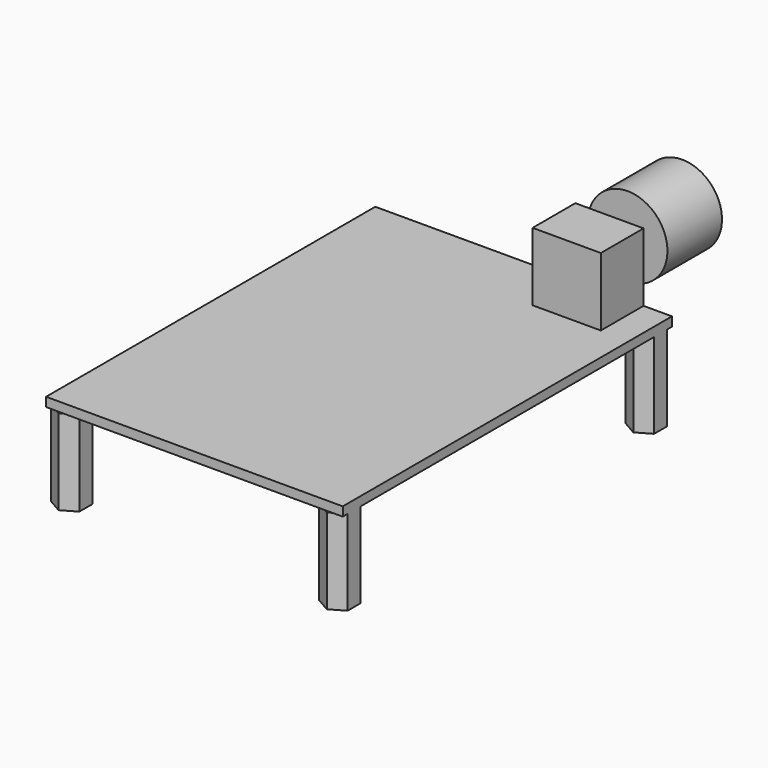
from build123d import *

# Parameters (mm, degrees)
F0_W     = 66.294
F0_H     = 91.948
F1_DEPTH = 2.032
F2_W     = 15.24
F2_H     = 11.938
F3_DEPTH = 15.24
F4_R     = 1.5875
F5_DEPTH = 20.32
F6_R     = 8.89
F7_DEPTH = 15.24
F9_DEPTH = 19.05


with BuildPart() as f1:
    # F0 (on Top) → F1 (new body)
    with BuildSketch(Plane.XY):
        Rectangle(F0_W, F0_H)
    extrude(amount=F1_DEPTH)

    # F2 (on face) → F3 (join)
    with BuildSketch(Plane.XY.offset(2.032)):
        with Locations((19.177, 40.005)):
            Rectangle(F2_W, F2_H)
    extrude(amount=F3_DEPTH)

    # F4 (on face) → F5 (join)
    with BuildSketch(Plane(origin=(0, 45.974, 0), x_dir=(-1, 0, 0), z_dir=(0, 1, 0))):
        with Locations((-19.177, 11.176)):
            Circle(F4_R)
    extrude(amount=F5_DEPTH)

    # F6 (on face) → F7 (join)
    with BuildSketch(Plane(origin=(0, 66.294, 0), x_dir=(-1, 0, 0), z_dir=(0, 1, 0))):
        with Locations((-19.177, 11.176)):
            Circle(F6_R)
    extrude(amount=-F7_DEPTH)

    # F8 (on face) → F9 (join)
    with BuildSketch(Plane(origin=(0, 0, 0), x_dir=(1, 0, 0), z_dir=(0, 0, -1))):
        Polygon((33.147, 40.965913), (33.147, 44.632087), (29.972, 46.465174), (26.797, 44.632087), (26.797, 40.965913), (29.972, 39.132826), align=None)
        Polygon((-29.972, 46.465174), (-33.147, 44.632087), (-33.147, 40.965913), (-29.972, 39.132826), (-26.797, 40.965913), (-26.797, 44.632087), align=None)
        Polygon((26.797, -44.632087), (29.972, -46.465174), (33.147, -44.632087), (33.147, -40.965913), (29.972, -39.132826), (26.797, -40.965913), align=None)
        Polygon((-33.147, -40.965913), (-33.147, -44.632087), (-29.972, -46.465174), (-26.797, -44.632087), (-26.797, -40.965913), (-29.972, -39.132826), align=None)
    extrude(amount=F9_DEPTH)


solid = f1.part
